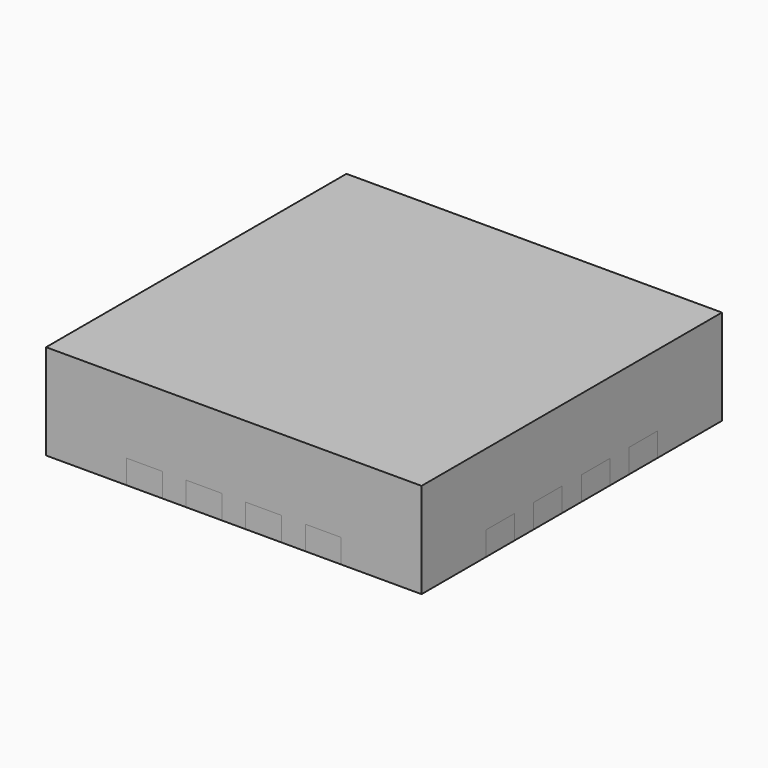
from build123d import *

# Parameters (mm, degrees)
F0_W     = 3.15
F0_H     = 3.15
F1_DEPTH = 0.8
F2_W     = 0.3
F2_H     = 0.5
F2_W_2   = 0.5
F2_H_2   = 0.3
F3_DEPTH = 0.2
F4_DEPTH = 0.2


with BuildPart() as f1:
    # F0 (on Top) → F1 (new body)
    with BuildSketch(Plane.XY):
        Rectangle(F0_W, F0_H)
    extrude(amount=F1_DEPTH)

    # F2 (on face) → F3 (cut)
    with BuildSketch(Plane(origin=(0, 0, 0), x_dir=(1, 0, 0), z_dir=(0, 0, -1))):
        with Locations((0.25, 1.325)):
            Rectangle(F2_W, F2_H)
        with Locations((0.75, 1.325)):
            Rectangle(F2_W, F2_H)
        with Locations((-0.25, 1.325)):
            Rectangle(F2_W, F2_H)
        with Locations((-0.75, 1.325)):
            Rectangle(F2_W, F2_H)
        with Locations((-1.325, 0.25)):
            Rectangle(F2_W_2, F2_H_2)
        with Locations((-1.325, 0.75)):
            Rectangle(F2_W_2, F2_H_2)
        with Locations((-1.325, -0.75)):
            Rectangle(F2_W_2, F2_H_2)
        with Locations((-1.325, -0.25)):
            Rectangle(F2_W_2, F2_H_2)
        with Locations((-0.25, -1.325)):
            Rectangle(F2_W, F2_H)
        with Locations((-0.75, -1.325)):
            Rectangle(F2_W, F2_H)
        with Locations((0.75, -1.325)):
            Rectangle(F2_W, F2_H)
        with Locations((0.25, -1.325)):
            Rectangle(F2_W, F2_H)
        with Locations((1.325, -0.25)):
            Rectangle(F2_W_2, F2_H_2)
        with Locations((1.325, -0.75)):
            Rectangle(F2_W_2, F2_H_2)
        with Locations((1.325, 0.75)):
            Rectangle(F2_W_2, F2_H_2)
        with Locations((1.325, 0.25)):
            Rectangle(F2_W_2, F2_H_2)
    extrude(amount=-F3_DEPTH, mode=Mode.SUBTRACT)


with BuildPart() as f4:
    # F2 (on face) → F4 (new body)
    with BuildSketch(Plane(origin=(0, 0, 0), x_dir=(1, 0, 0), z_dir=(0, 0, -1))):
        with Locations((0.25, 1.325)):
            Rectangle(F2_W, F2_H)
        with Locations((0.75, 1.325)):
            Rectangle(F2_W, F2_H)
        with Locations((-0.25, 1.325)):
            Rectangle(F2_W, F2_H)
        with Locations((-0.75, 1.325)):
            Rectangle(F2_W, F2_H)
        with Locations((-1.325, 0.25)):
            Rectangle(F2_W_2, F2_H_2)
        with Locations((-1.325, 0.75)):
            Rectangle(F2_W_2, F2_H_2)
        with Locations((-1.325, -0.75)):
            Rectangle(F2_W_2, F2_H_2)
        with Locations((-1.325, -0.25)):
            Rectangle(F2_W_2, F2_H_2)
        with Locations((-0.25, -1.325)):
            Rectangle(F2_W, F2_H)
        with Locations((-0.75, -1.325)):
            Rectangle(F2_W, F2_H)
        with Locations((0.75, -1.325)):
            Rectangle(F2_W, F2_H)
        with Locations((0.25, -1.325)):
            Rectangle(F2_W, F2_H)
        with Locations((1.325, -0.25)):
            Rectangle(F2_W_2, F2_H_2)
        with Locations((1.325, -0.75)):
            Rectangle(F2_W_2, F2_H_2)
        with Locations((1.325, 0.75)):
            Rectangle(F2_W_2, F2_H_2)
        with Locations((1.325, 0.25)):
            Rectangle(F2_W_2, F2_H_2)
    extrude(amount=-F4_DEPTH)


solid = Compound([f1.part, f4.part])
